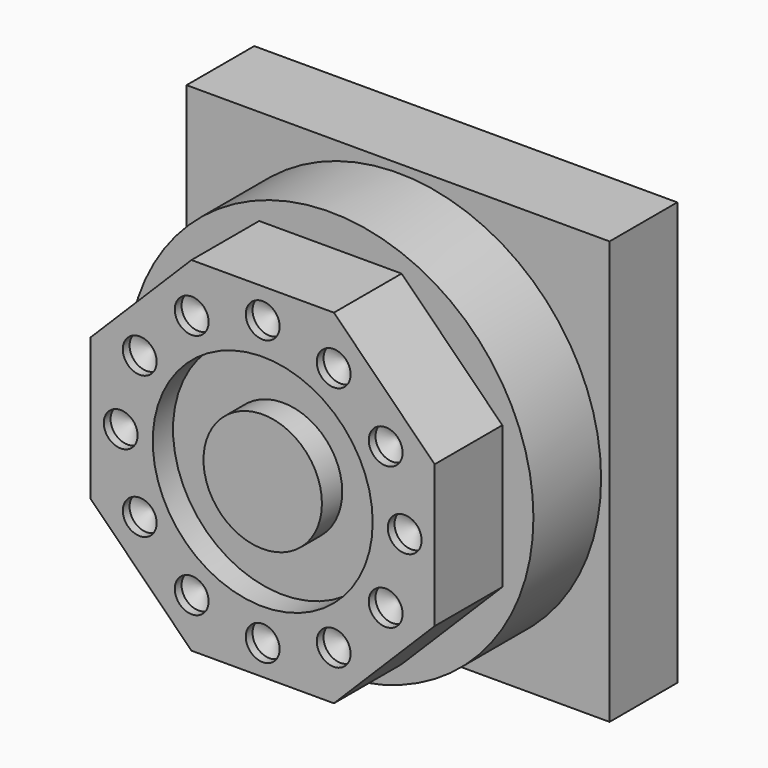
from build123d import *

# Parameters (mm, degrees)
F0_W     = 50
F0_H     = 50
F1_DEPTH = 10
F2_R     = 24
F3_DEPTH = 10
F5_DEPTH = 10
F7_D     = 4
F7_DEPTH = 1
F7_TIP   = 1.2017212381
F8_R     = 13
F8_R_2   = 7
F9_DEPTH = 3


with BuildPart() as f1:
    # F0 (on Front) → F1 (new body)
    with BuildSketch(Plane.XZ):
        Rectangle(F0_W, F0_H)
    extrude(amount=F1_DEPTH)

    # F2 (on face) → F3 (join)
    with BuildSketch(Plane.XZ.offset(10)):
        Circle(F2_R)
    extrude(amount=F3_DEPTH)

    # F4 (on face) → F5 (join)
    with BuildSketch(Plane.XZ.offset(20)):
        Polygon((20.325, 8.4188906552), (8.4188906552, 20.325), (0, 20.325), (-8.4188906552, 20.325), (-20.325, 8.4188906552), (-20.325, -8.4188906552), (-8.4188906552, -20.325), (8.4188906552, -20.325), (20.325, -8.4188906552), align=None)
    extrude(amount=F5_DEPTH)

    # F7
    with Locations(Plane.XZ.offset(30)):
        with Locations((-8.3919226456, 14.5352363953), (0, 16.7838452912), (8.3919226456, 14.5352363953), (14.5352363953, 8.3919226456), (16.7838452912, 0), (14.5352363953, -8.3919226456), (8.3919226456, -14.5352363953), (0, -16.7838452912), (-8.3919226456, -14.5352363953), (-14.5352363953, -8.3919226456), (-16.7838452912, 0), (-14.5352363953, 8.3919226456)):
            Hole(F7_D / 2, depth=F7_DEPTH)
            with Locations((0, 0, -(F7_DEPTH + F7_TIP / 2))):  # 118° drill point
                Cone(0, F7_D / 2, F7_TIP, mode=Mode.SUBTRACT)

    # F8 (on face) → F9 (cut)
    with BuildSketch(Plane.XZ.offset(30)):
        Circle(F8_R)
        Circle(F8_R_2, mode=Mode.SUBTRACT)
    extrude(amount=-F9_DEPTH, mode=Mode.SUBTRACT)


solid = f1.part
